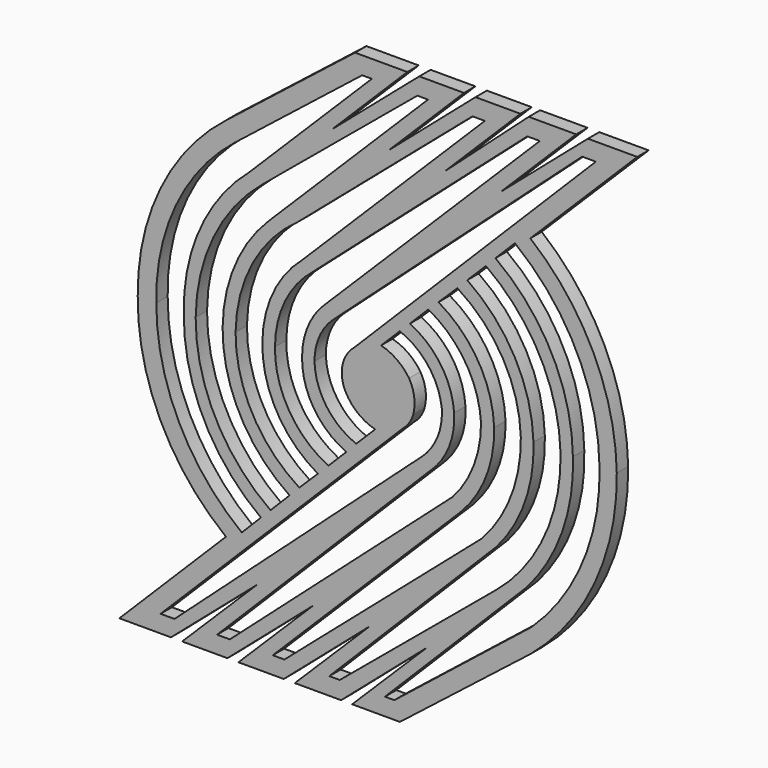
from build123d import *

# Parameters (mm, degrees)
F1_DEPTH = 1.5875


with BuildPart() as f1:
    # F0 (on Front) → F1 (new body)
    with BuildSketch(Plane.XZ):
        with BuildLine():
            Line((2.500466, 31.804252), (-3.337374, 31.804252))
            Line((-3.337374, 31.804252), (-17.745788, 20.465644))
            ThreePointArc((-17.745788, 20.465644), (-25.065561, 11.385533), (-27.594821, 0))
            ThreePointArc((-27.594821, 0), (-25.068458, -11.38136), (-17.745788, -20.453094))
            Line((-17.745788, -20.453094), (-29.64324, -32.335669))
            Line((-29.64324, -32.335669), (-23.884054, -32.335669))
            Line((-23.884054, -32.335669), (-14.268195, -24.034924))
            Line((-14.268195, -24.034924), (-22.640626, -32.335669))
            Line((-22.640626, -32.335669), (-17.583598, -32.335669))
            Line((-17.583598, -32.335669), (-7.984732, -24.03398))
            Line((-7.984732, -24.03398), (-16.352598, -32.335669))
            Line((-16.352598, -32.335669), (-11.296707, -32.335669))
            Line((-11.296707, -32.335669), (-1.655925, -23.997727))
            Line((-1.655925, -23.997727), (-10.060332, -32.335669))
            Line((-10.060332, -32.335669), (-4.89258, -32.335669))
            Line((-4.89258, -32.335669), (4.706284, -24.033981))
            Line((4.706284, -24.033981), (-3.66158, -32.335669))
            Line((-3.66158, -32.335669), (1.67275, -32.335669))
            Line((1.67275, -32.335669), (16.232245, -20.932899))
            ThreePointArc((16.232245, -20.932899), (23.431336, -11.561058), (25.880881, 0))
            ThreePointArc((25.880881, 0), (23.254287, 11.025444), (16.232245, 19.922092))
            Line((16.232245, 19.922092), (28.165267, 31.804252))
            Line((28.165267, 31.804252), (22.655676, 31.804252))
            Line((22.655676, 31.804252), (12.946506, 23.436493))
            Line((12.946506, 23.436493), (21.350084, 31.804252))
            Line((21.350084, 31.804252), (16.049387, 31.804252))
            Line((16.049387, 31.804252), (6.718841, 23.436493))
            Line((6.718841, 23.436493), (15.122419, 31.804252))
            Line((15.122419, 31.804252), (10.108952, 31.804252))
            Line((10.108952, 31.804252), (0.425895, 23.436493))
            Line((0.425895, 23.436493), (8.829473, 31.804252))
            Line((8.829473, 31.804252), (3.829063, 31.804252))
            Line((3.829063, 31.804252), (-5.903112, 23.436493))
            Line((-5.903112, 23.436493), (2.500466, 31.804252))
        make_face()
        with BuildLine():
            ThreePointArc((2.694642, 1.767532), (1.335932, 3.159091), (-0.427456, 3.979452))
            Line((-0.427456, 3.979452), (1.66349, 6.061486))
            ThreePointArc((1.66349, 6.061486), (4.845747, 3.680126), (6.347182, 0))
            ThreePointArc((6.347182, 0), (5.866074, -2.982653), (4.133003, -5.457355))
            Line((4.133003, -5.457355), (-23.493576, -30.398272))
            Line((-23.493576, -30.398272), (-25.043647, -30.398272))
            Line((-25.043647, -30.398272), (2.006969, -3.381483))
            ThreePointArc((2.006969, -3.381483), (2.71769, -2.601128), (3.157621, -1.64168))
            ThreePointArc((3.157621, -1.64168), (3.270361, 0.109673), (2.694642, 1.767532))
        make_face(mode=Mode.SUBTRACT)
        with BuildLine():
            ThreePointArc((7.720564, 0), (6.233101, 4.259643), (2.777397, 7.160541))
            Line((2.777397, 7.160541), (4.846783, 9.234832))
            ThreePointArc((4.846783, 9.234832), (8.986332, 5.381127), (10.72713, 0))
            ThreePointArc((10.72713, 0), (9.918057, -4.45281), (7.554526, -8.312322))
            Line((7.554526, -8.312322), (-17.312014, -30.398272))
            Line((-17.312014, -30.398272), (-18.735651, -30.398272))
            Line((-18.735651, -30.398272), (5.156565, -6.444786))
            ThreePointArc((5.156565, -6.444786), (7.161366, -3.509953), (7.720564, 0))
        make_face(mode=Mode.SUBTRACT)
        with BuildLine():
            ThreePointArc((8.497341, -9.450918), (11.293115, -5.096154), (12.192859, 0))
            ThreePointArc((12.192859, 0), (10.415009, 5.958783), (5.976826, 10.314284))
            Line((5.976826, 10.314284), (8.086616, 12.378573))
            ThreePointArc((8.086616, 12.378573), (13.188094, 7.082195), (15.167798, 0))
            ThreePointArc((15.167798, 0), (14.08092, -6.100532), (10.796622, -11.355165))
            Line((10.796622, -11.355165), (-11.222056, -30.398272))
            Line((-11.222056, -30.398272), (-12.51897, -30.398272))
            Line((-12.51897, -30.398272), (8.497341, -9.450918))
        make_face(mode=Mode.SUBTRACT)
        with BuildLine():
            Line((-5.040918, -30.398272), (-6.208889, -30.398272))
            Line((-6.208889, -30.398272), (12.476413, -11.58771))
            ThreePointArc((12.476413, -11.58771), (15.630392, -6.184107), (16.580828, 0))
            ThreePointArc((16.580828, 0), (14.510264, 7.649505), (9.189624, 13.522575))
            Line((9.189624, 13.522575), (11.269993, 15.594592))
            ThreePointArc((11.269993, 15.594592), (17.264531, 8.775118), (19.596276, 0))
            ThreePointArc((19.596276, 0), (17.840213, -8.751202), (12.435093, -15.854157))
            Line((12.435093, -15.854157), (-5.040918, -30.398272))
        make_face(mode=Mode.SUBTRACT)
        with BuildLine():
            ThreePointArc((20.982919, 0), (18.632523, 9.374038), (12.338778, 16.707912))
            Line((12.338778, 16.707912), (14.508339, 18.886948))
            ThreePointArc((14.508339, 18.886948), (21.382927, 10.519577), (23.954181, 0))
            ThreePointArc((23.954181, 0), (22.107779, -9.926357), (16.36753, -18.232456))
            Line((16.36753, -18.232456), (1.051465, -30.398272))
            Line((1.051465, -30.398272), (0, -30.398272))
            Line((0, -30.398272), (15.803264, -14.524432))
            ThreePointArc((15.803264, -14.524432), (19.78452, -7.758422), (20.982919, 0))
        make_face(mode=Mode.SUBTRACT)
        with BuildLine():
            Line((-16.761772, 18.597473), (-2.54207, 29.840623))
            Line((-2.54207, 29.840623), (-1.463471, 29.840623))
            Line((-1.463471, 29.840623), (-15.165877, 16.19467))
            ThreePointArc((-15.165877, 16.19467), (-20.625905, 8.914632), (-22.453522, 0))
            ThreePointArc((-22.453522, 0), (-20.242724, -9.692341), (-13.844848, -17.301303))
            Line((-13.844848, -17.301303), (-15.977073, -19.462374))
            ThreePointArc((-15.977073, -19.462374), (-23.020704, -10.845215), (-25.520603, 0))
            ThreePointArc((-25.520603, 0), (-23.326341, 10.327876), (-16.761772, 18.597473))
        make_face(mode=Mode.SUBTRACT)
        with BuildLine():
            Line((-13.788489, 15.40208), (3.616895, 29.840623))
            Line((3.616895, 29.840623), (4.808587, 29.840623))
            Line((4.808587, 29.840623), (-13.00357, 12.101851))
            ThreePointArc((-13.00357, 12.101851), (-16.74891, 6.552839), (-18.11982, 0))
            ThreePointArc((-18.11982, 0), (-16.169546, -7.988951), (-10.645506, -14.080904))
            Line((-10.645506, -14.080904), (-12.770631, -16.228664))
            ThreePointArc((-12.770631, -16.228664), (-18.934176, -9.136403), (-21.128622, 0))
            ThreePointArc((-21.128622, 0), (-19.154685, 8.509361), (-13.788489, 15.40208))
        make_face(mode=Mode.SUBTRACT)
        with BuildLine():
            Line((-9.702722, 13.103459), (9.771443, 29.809413))
            Line((9.771443, 29.809413), (11.151096, 29.809413))
            Line((11.151096, 29.809413), (-9.237427, 9.507794))
            ThreePointArc((-9.237427, 9.507794), (-12.491403, 5.236064), (-13.682904, 0))
            ThreePointArc((-13.682904, 0), (-12.084754, -6.314048), (-7.484162, -10.924453))
            Line((-7.484162, -10.924453), (-9.551929, -12.96554))
            ThreePointArc((-9.551929, -12.96554), (-14.800405, -7.409972), (-16.67208, 0))
            ThreePointArc((-16.67208, 0), (-14.772793, 7.394955), (-9.702722, 13.103459))
        make_face(mode=Mode.SUBTRACT)
        with BuildLine():
            Line((-8.06543, 8.717639), (15.884997, 29.83083))
            Line((15.884997, 29.83083), (17.292799, 29.83083))
            Line((17.292799, 29.83083), (-6.563151, 6.092896))
            ThreePointArc((-6.563151, 6.092896), (-8.545871, 3.328581), (-9.248127, 0))
            ThreePointArc((-9.248127, 0), (-7.954567, -4.625728), (-4.305757, -7.749323))
            Line((-4.305757, -7.749323), (-6.321113, -9.764679))
            ThreePointArc((-6.321113, -9.764679), (-10.718668, -5.748904), (-12.272709, 0))
            ThreePointArc((-12.272709, 0), (-11.158112, 4.836148), (-8.06543, 8.717639))
        make_face(mode=Mode.SUBTRACT)
        with BuildLine():
            Line((-5.838636, 4.71663), (22.008805, 29.83083))
            Line((22.008805, 29.83083), (23.542084, 29.83083))
            Line((23.542084, 29.83083), (-3.44265, 2.78213))
            ThreePointArc((-3.44265, 2.78213), (-4.742008, 0.626663), (-4.394693, -1.866074))
            ThreePointArc((-4.394693, -1.866074), (-3.019974, -3.523453), (-1.090547, -4.479523))
            Line((-1.090547, -4.479523), (-3.204506, -6.583116))
            ThreePointArc((-3.204506, -6.583116), (-6.527039, -3.994261), (-7.863931, 0))
            ThreePointArc((-7.863931, 0), (-7.341413, 2.568774), (-5.838636, 4.71663))
        make_face(mode=Mode.SUBTRACT)
    extrude(amount=F1_DEPTH)


solid = f1.part
